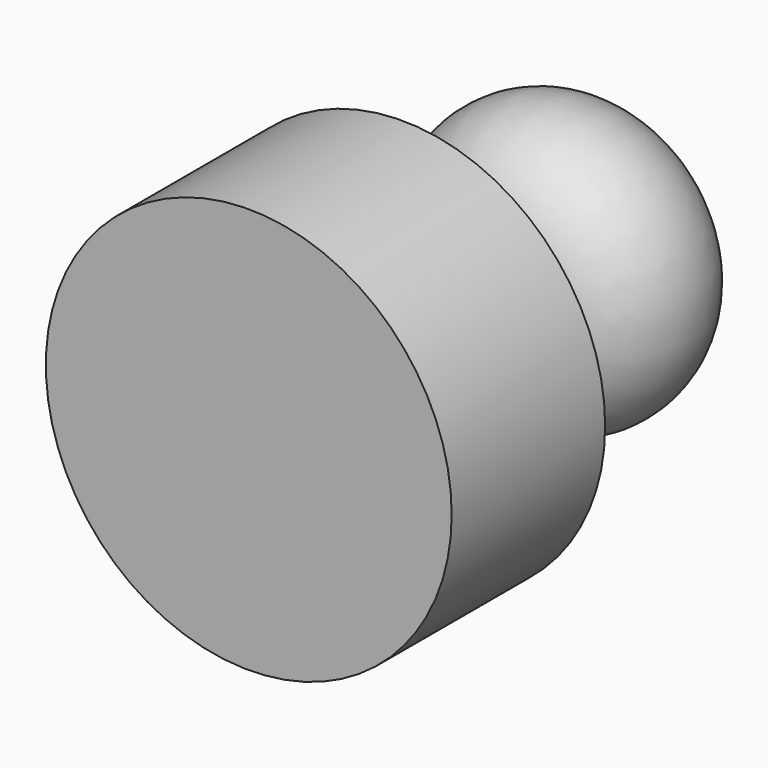
from build123d import *


with BuildPart() as f1:
    # F0 (on Top) → F1 (revolve)
    with BuildSketch(Plane.XY):
        with BuildLine():
            Line((28.379202, -22.812862), (10.311414, -22.812862))
            Line((10.311414, -22.812862), (10.311414, -8.138863))
            ThreePointArc((10.311414, -8.138863), (18.604947, 9.256539), (0, 14.280346))
            Line((0, 14.280346), (0, 0))
            Line((0, 0), (0, -22.812862))
            Line((0, -22.812862), (0, -28.652957))
            Line((0, -28.652957), (0, -49.640793))
            Line((0, -49.640793), (28.379202, -49.640793))
            Line((28.379202, -49.640793), (28.379202, -22.812862))
        make_face()
    revolve(axis=Axis((0, 0.182502, 0), (0, -1, 0)))


solid = f1.part
